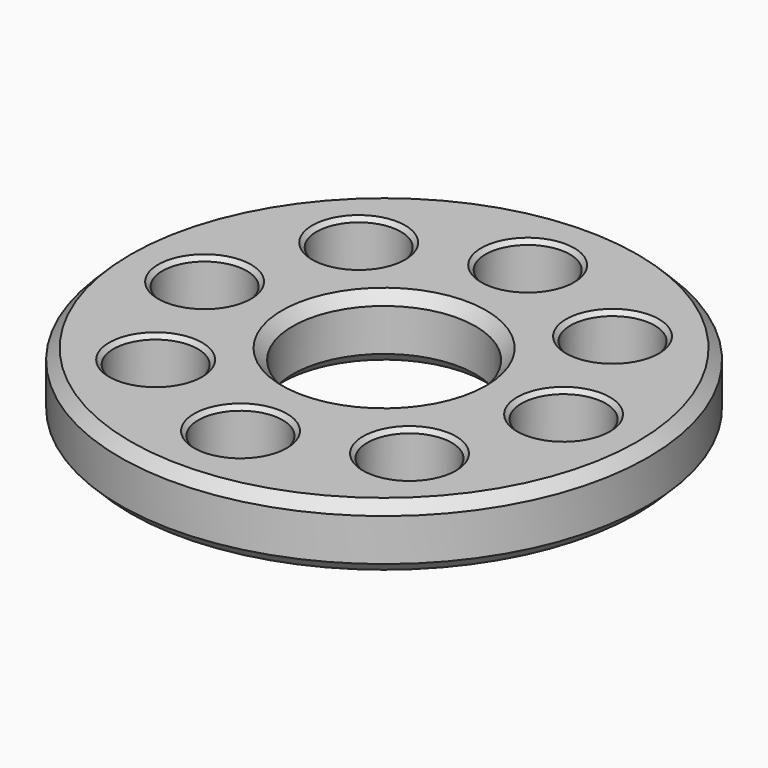
from build123d import *

# Parameters (mm, degrees)
F0_R     = 31.75
F0_R_2   = 5.08
F0_R_3   = 11.000003
F1_DEPTH = 7.62
F2_SIZE  = 1.27
F3_SIZE  = 1.27
F4_SIZE  = 0.508


with BuildPart() as f1:
    # F0 (on Top) → F1 (new body)
    with BuildSketch(Plane.XY):
        Circle(F0_R)
        with Locations((-15.266435, -15.266435)):
            Circle(F0_R_2, mode=Mode.SUBTRACT)
        with Locations((0, -21.59)):
            Circle(F0_R_2, mode=Mode.SUBTRACT)
        with Locations((15.266435, -15.266435)):
            Circle(F0_R_2, mode=Mode.SUBTRACT)
        with Locations((-21.59, 0)):
            Circle(F0_R_2, mode=Mode.SUBTRACT)
        with Locations((-15.266435, 15.266435)):
            Circle(F0_R_2, mode=Mode.SUBTRACT)
        Circle(F0_R_3, mode=Mode.SUBTRACT)
        with Locations((15.266435, 15.266435)):
            Circle(F0_R_2, mode=Mode.SUBTRACT)
        with Locations((21.59, 0)):
            Circle(F0_R_2, mode=Mode.SUBTRACT)
        with Locations((0, 21.59)):
            Circle(F0_R_2, mode=Mode.SUBTRACT)
    extrude(amount=F1_DEPTH)

    # F2
    f2_edges = [f1.edges().sort_by_distance(p)[0] for p in [
        (-31.75, 0, 7.62),
        (-11.000003, 0, 7.62),
    ]]
    chamfer(f2_edges, length=F2_SIZE)

    # F3
    f3_edges = [f1.edges().sort_by_distance(p)[0] for p in [
        (-31.75, 0, 0),
        (-11.000003, 0, 0),
    ]]
    chamfer(f3_edges, length=F3_SIZE)

    # F4
    f4_edges = [f1.edges().sort_by_distance(p)[0] for p in [
        (-5.08, -21.59, 0),
        (20.346435, -15.266435, 3.81),
        (10.186435, -15.266435, 0),
        (10.186435, -15.266435, 7.62),
        (5.08, -21.59, 3.81),
        (-5.08, -21.59, 7.62),
        (-10.186435, -15.266435, 3.81),
        (-20.346435, -15.266435, 0),
        (-20.346435, -15.266435, 7.62),
        (-16.51, 0, 3.81),
        (-26.67, 0, 0),
        (-26.67, 0, 7.62),
        (-10.186435, 15.266435, 3.81),
        (-20.346435, 15.266435, 0),
        (-20.346435, 15.266435, 7.62),
        (5.08, 21.59, 3.81),
        (-5.08, 21.59, 0),
        (-5.08, 21.59, 7.62),
        (20.346435, 15.266435, 3.81),
        (10.186435, 15.266435, 0),
        (10.186435, 15.266435, 7.62),
        (16.51, 0, 0),
        (26.67, 0, 3.81),
        (16.51, 0, 7.62),
    ]]
    chamfer(f4_edges, length=F4_SIZE)


solid = f1.part
